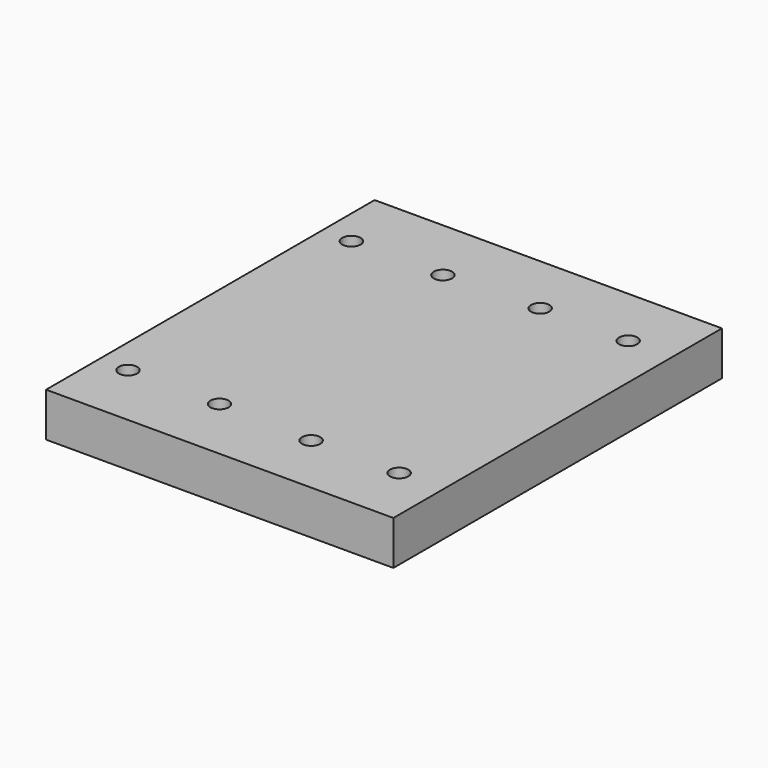
from build123d import *

# Parameters (mm, degrees)
F0_W     = 150.368
F0_H     = 177.8
F1_DEPTH = 19.05
F3_D     = 7.9375


with BuildPart() as f1:
    # F0 (on Top) → F1 (new body)
    with BuildSketch(Plane.XY):
        Rectangle(F0_W, F0_H)
    extrude(amount=F1_DEPTH)

    # F3 (through all)
    with Locations(Plane.XY.offset(19.05)):
        with Locations((18.034, 61.976), (56.134, 61.976), (18.034, -61.976), (56.134, -61.976), (-62.484, 60.452), (-22.86, 60.452), (-62.484, -60.452), (-22.86, -60.452)):
            Hole(F3_D / 2)


solid = f1.part
